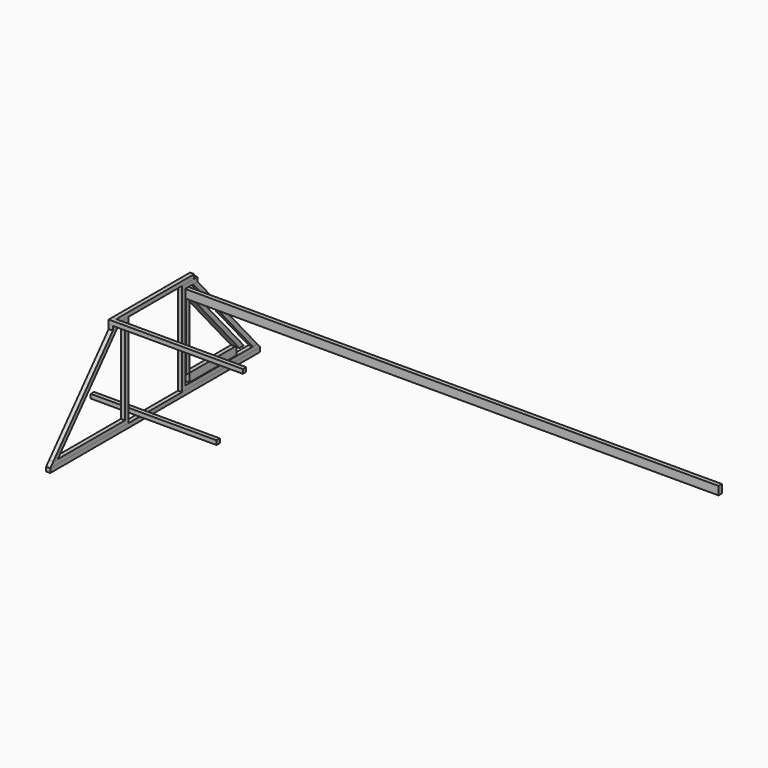
from build123d import *

# Parameters (mm, degrees)
F1_DEPTH  = 3.175
F0_W      = 3.175
F0_H      = 6.35
F2_DEPTH  = 406.4
F3_DEPTH  = 3.175
F4_DEPTH  = 6.35
F6_DEPTH  = 3.175
F7_DEPTH  = 3.175
F8_DEPTH  = 3.175
F9_DEPTH  = 3.175
F10_DEPTH = 3.175
F5_W      = 3.175
F5_H      = 3.175
F11_DEPTH = 101.6
F12_W     = 95.25
F12_H     = 3.175
F13_DEPTH = 3.175


with BuildPart() as f1:
    # F0 (on Right) → F1 (new body)
    with BuildSketch(Plane.YZ):
        Polygon((0, 57.15), (0, 6.35), (3.175, 6.35), (3.175, 55.957041), (3.175, 57.15), align=None)
    extrude(amount=F1_DEPTH)


with BuildPart() as f2:
    # F0 (on Right) → F2 (new body)
    with BuildSketch(Plane.YZ):
        with Locations((1.5875, 60.325)):
            Rectangle(F0_W, F0_H)
    extrude(amount=F2_DEPTH)


with BuildPart() as f3:
    # F0 (on Right) → F3 (new body)
    with BuildSketch(Plane.YZ):
        Polygon((3.175, 6.35), (3.175, 0), (47.625, 0), (47.625, 6.35), (46.581161, 6.35), align=None)
    extrude(amount=F3_DEPTH)


with BuildPart() as f4:
    # F0 (on Right) → F4 (new body)
    with BuildSketch(Plane.YZ):
        Polygon((3.175, 55.957041), (46.581161, 6.35), (47.625, 6.35), (50.8, 6.35), (6.35, 57.15), (3.175, 57.15), align=None)
    extrude(amount=F4_DEPTH)


with BuildPart() as f6:
    # F5 (on face) → F6 (new body)
    with BuildSketch(Plane.YZ):
        Polygon((-3.683, 64.008), (-0.508, 64.008), (6.792539, 64.008), (11.011378, 64.008), (11.011378, 67.183), (7.836378, 67.183), (-3.683, 67.183), align=None)
        Polygon((-54.482988, 64.008), (-54.482988, 67.183), (-66.002366, 67.183), (-69.177366, 67.183), (-69.177366, 64.008), (-64.958527, 64.008), (-57.657988, 64.008), align=None)
    extrude(amount=F6_DEPTH)


with BuildPart() as f7:
    # F5 (on face) → F7 (new body)
    with BuildSketch(Plane.YZ):
        Polygon((70.241003, -3.683), (-3.683, -3.683), (-54.482988, -3.683), (-128.406991, -3.683), (-128.406991, -6.858), (70.241003, -6.858), align=None)
    extrude(amount=F7_DEPTH)


with BuildPart() as f8:
    # F5 (on face) → F8 (new body)
    with BuildSketch(Plane.YZ):
        Polygon((-0.508, -0.508), (-0.508, 64.008), (-3.683, 64.008), (-3.683, -3.683), (70.241003, -3.683), (67.462878, -0.508), (63.244039, -0.508), align=None)
        Polygon((-128.406991, -3.683), (-54.482988, -3.683), (-54.482988, 64.008), (-57.657988, 64.008), (-57.657988, -0.508), (-121.410027, -0.508), (-125.628866, -0.508), align=None)
    extrude(amount=F8_DEPTH)


with BuildPart() as f9:
    # F5 (on face) → F9 (new body)
    with BuildSketch(Plane.YZ):
        Polygon((11.011378, 64.008), (6.792539, 64.008), (63.244039, -0.508), (67.462878, -0.508), align=None)
        Polygon((-69.177366, 64.008), (-125.628866, -0.508), (-121.410027, -0.508), (-64.958527, 64.008), align=None)
    extrude(amount=F9_DEPTH)


with BuildPart() as f10:
    # F5 (on face) → F10 (new body)
    with BuildSketch(Plane.YZ):
        Polygon((-54.482988, 67.183), (-3.683, 67.183), (7.836378, 67.183), (7.836378, 70.358), (-66.002366, 70.358), (-66.002366, 67.183), align=None)
    extrude(amount=F10_DEPTH)


with BuildPart() as f11:
    # F5 (on face) → F11 (new body)
    with BuildSketch(Plane.YZ):
        with Locations((-67.589866, 68.7705)):
            Rectangle(F5_W, F5_H)
    extrude(amount=F11_DEPTH)


with BuildPart() as f13:
    # F12 (on Top) → F13 (new body)
    with BuildSketch(Plane.XY):
        with Locations((18.165984, -47.729536)):
            Rectangle(F12_W, F12_H)
    extrude(amount=F13_DEPTH)


solid = Compound([f1.part, f2.part, f3.part, f4.part, f6.part, f7.part, f8.part, f9.part, f10.part, f11.part, f13.part])
